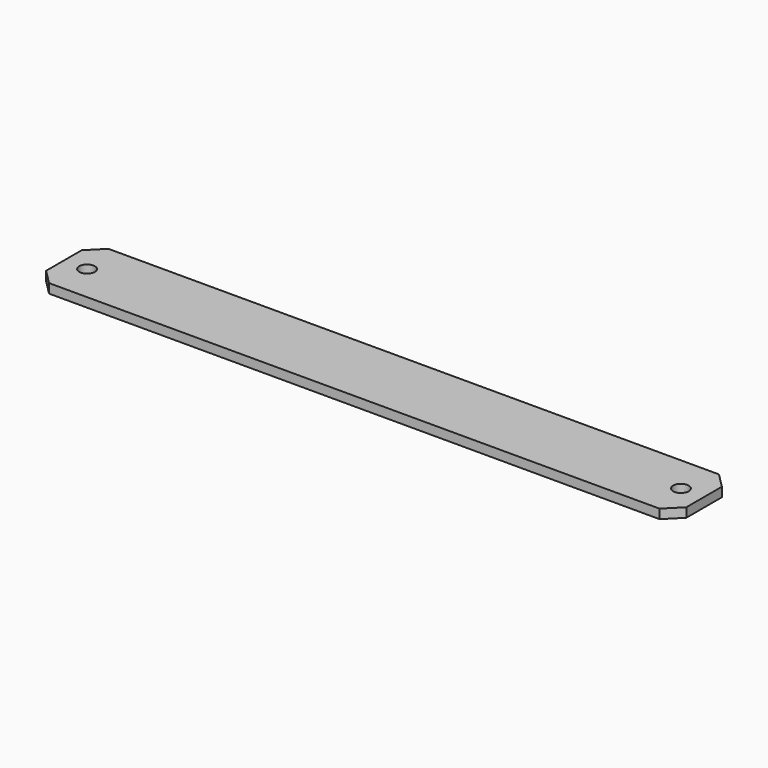
from build123d import *

# Parameters (mm, degrees)
F0_W     = 219.075
F0_H     = 25.4
F0_R     = 2.667
F1_DEPTH = 1.5875
F2_SIZE  = 5.08


with BuildPart() as f1:
    # F0 (on Top) → F1 (new body, symmetric)
    with BuildSketch(Plane.XY):
        Rectangle(F0_W, F0_H)
        with Locations((-101.6, 0)):
            Circle(F0_R, mode=Mode.SUBTRACT)
        with Locations((101.6, 0)):
            Circle(F0_R, mode=Mode.SUBTRACT)
    extrude(amount=F1_DEPTH, both=True)

    # F2
    f2_edges = [f1.edges().sort_by_distance(p)[0] for p in [
        (-109.5375, 12.7, 0),
        (-109.5375, -12.7, 0),
        (109.5375, 12.7, 0),
        (109.5375, -12.7, 0),
    ]]
    chamfer(f2_edges, length=F2_SIZE)


solid = f1.part
